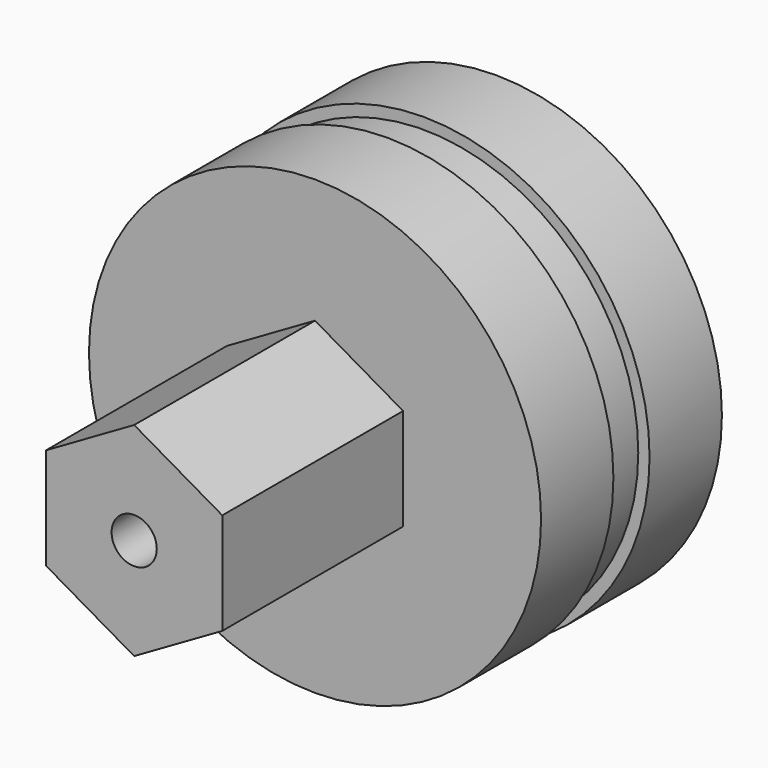
from build123d import *

# Parameters (mm, degrees)
F0_R     = 10
F0_R_2   = 9.5
F0_R_3   = 1
F1_DEPTH = 4
F2_DEPTH = 6
F3_R     = 10
F3_R_2   = 9.5
F3_R_3   = 1
F4_DEPTH = 4
F5_DEPTH = 14
F6_DEPTH = 20


with BuildPart() as f1:
    # F0 (on Front) → F1 (new body)
    with BuildSketch(Plane.XZ):
        Circle(F0_R)
        Circle(F0_R_2, mode=Mode.SUBTRACT)
        Circle(F0_R_2)
        with BuildLine():
            ThreePointArc((3.897114317, 2.25), (4.3466662183, 1.164685703), (4.5, 0))
            ThreePointArc((4.5, 0), (4.3466662183, -1.164685703), (3.897114317, -2.25))
            ThreePointArc((3.897114317, -2.25), (2.25, -3.897114317), (0, -4.5))
            ThreePointArc((0, -4.5), (-2.25, -3.897114317), (-3.897114317, -2.25))
            ThreePointArc((-3.897114317, -2.25), (-4.5, 0), (-3.897114317, 2.25))
            ThreePointArc((-3.897114317, 2.25), (-2.25, 3.897114317), (0, 4.5))
            ThreePointArc((0, 4.5), (2.25, 3.897114317), (3.897114317, 2.25))
        make_face(mode=Mode.SUBTRACT)
        with BuildLine():
            Line((0, 4.5), (3.897114317, 2.25))
            ThreePointArc((3.897114317, 2.25), (2.25, 3.897114317), (0, 4.5))
        make_face()
        with BuildLine():
            Line((-3.897114317, 2.25), (0, 4.5))
            ThreePointArc((0, 4.5), (-2.25, 3.897114317), (-3.897114317, 2.25))
        make_face()
        with BuildLine():
            Line((-3.897114317, -2.25), (-3.897114317, 2.25))
            ThreePointArc((-3.897114317, 2.25), (-4.5, 0), (-3.897114317, -2.25))
        make_face()
        with BuildLine():
            ThreePointArc((-3.897114317, -2.25), (-2.25, -3.897114317), (0, -4.5))
            Line((0, -4.5), (-3.897114317, -2.25))
        make_face()
        with BuildLine():
            ThreePointArc((0, -4.5), (2.25, -3.897114317), (3.897114317, -2.25))
            Line((3.897114317, -2.25), (0, -4.5))
        make_face()
        Polygon((3.897114317, -2.25), (3.897114317, 2.25), (0, 4.5), (-3.897114317, 2.25), (-3.897114317, -2.25), (0, -4.5), align=None)
        Circle(F0_R_3, mode=Mode.SUBTRACT)
        with BuildLine():
            ThreePointArc((3.897114317, -2.25), (4.3466662183, -1.164685703), (4.5, 0))
            ThreePointArc((4.5, 0), (4.3466662183, 1.164685703), (3.897114317, 2.25))
            Line((3.897114317, 2.25), (3.897114317, -2.25))
        make_face()
    extrude(amount=F1_DEPTH)

    # F0 (on Front) → F2 (join)
    with BuildSketch(Plane.XZ):
        Circle(F0_R_2)
        with BuildLine():
            ThreePointArc((3.897114317, 2.25), (4.3466662183, 1.164685703), (4.5, 0))
            ThreePointArc((4.5, 0), (4.3466662183, -1.164685703), (3.897114317, -2.25))
            ThreePointArc((3.897114317, -2.25), (2.25, -3.897114317), (0, -4.5))
            ThreePointArc((0, -4.5), (-2.25, -3.897114317), (-3.897114317, -2.25))
            ThreePointArc((-3.897114317, -2.25), (-4.5, 0), (-3.897114317, 2.25))
            ThreePointArc((-3.897114317, 2.25), (-2.25, 3.897114317), (0, 4.5))
            ThreePointArc((0, 4.5), (2.25, 3.897114317), (3.897114317, 2.25))
        make_face(mode=Mode.SUBTRACT)
        Polygon((3.897114317, -2.25), (3.897114317, 2.25), (0, 4.5), (-3.897114317, 2.25), (-3.897114317, -2.25), (0, -4.5), align=None)
        Circle(F0_R_3, mode=Mode.SUBTRACT)
        with BuildLine():
            Line((-3.897114317, 2.25), (0, 4.5))
            ThreePointArc((0, 4.5), (-2.25, 3.897114317), (-3.897114317, 2.25))
        make_face()
        with BuildLine():
            Line((0, 4.5), (3.897114317, 2.25))
            ThreePointArc((3.897114317, 2.25), (2.25, 3.897114317), (0, 4.5))
        make_face()
        with BuildLine():
            ThreePointArc((3.897114317, -2.25), (4.3466662183, -1.164685703), (4.5, 0))
            ThreePointArc((4.5, 0), (4.3466662183, 1.164685703), (3.897114317, 2.25))
            Line((3.897114317, 2.25), (3.897114317, -2.25))
        make_face()
        with BuildLine():
            Line((-3.897114317, -2.25), (-3.897114317, 2.25))
            ThreePointArc((-3.897114317, 2.25), (-4.5, 0), (-3.897114317, -2.25))
        make_face()
        with BuildLine():
            ThreePointArc((-3.897114317, -2.25), (-2.25, -3.897114317), (0, -4.5))
            Line((0, -4.5), (-3.897114317, -2.25))
        make_face()
        with BuildLine():
            ThreePointArc((0, -4.5), (2.25, -3.897114317), (3.897114317, -2.25))
            Line((3.897114317, -2.25), (0, -4.5))
        make_face()
    extrude(amount=F2_DEPTH)



with BuildPart() as f4:
    # F3 (on face) → F4 (new body)
    with BuildSketch(Plane.XZ.offset(6)):
        Circle(F3_R)
        Circle(F3_R_2, mode=Mode.SUBTRACT)
        Circle(F3_R_2)
        with BuildLine():
            ThreePointArc((3.897114317, 2.25), (4.3466662183, 1.164685703), (4.5, 0))
            ThreePointArc((4.5, 0), (4.3466662183, -1.164685703), (3.897114317, -2.25))
            ThreePointArc((3.897114317, -2.25), (2.25, -3.897114317), (0, -4.5))
            ThreePointArc((0, -4.5), (-2.25, -3.897114317), (-3.897114317, -2.25))
            ThreePointArc((-3.897114317, -2.25), (-4.5, 0), (-3.897114317, 2.25))
            ThreePointArc((-3.897114317, 2.25), (-2.25, 3.897114317), (0, 4.5))
            ThreePointArc((0, 4.5), (2.25, 3.897114317), (3.897114317, 2.25))
        make_face(mode=Mode.SUBTRACT)
        with BuildLine():
            Line((-3.897114317, 2.25), (0, 4.5))
            ThreePointArc((0, 4.5), (-2.25, 3.897114317), (-3.897114317, 2.25))
        make_face()
        with BuildLine():
            Line((-3.897114317, -2.25), (-3.897114317, 2.25))
            ThreePointArc((-3.897114317, 2.25), (-4.5, 0), (-3.897114317, -2.25))
        make_face()
        with BuildLine():
            Line((0, 4.5), (3.897114317, 2.25))
            ThreePointArc((3.897114317, 2.25), (2.25, 3.897114317), (0, 4.5))
        make_face()
        Polygon((3.897114317, -2.25), (3.897114317, 2.25), (0, 4.5), (-3.897114317, 2.25), (-3.897114317, -2.25), (0, -4.5), align=None)
        Circle(F3_R_3, mode=Mode.SUBTRACT)
        with BuildLine():
            ThreePointArc((3.897114317, -2.25), (4.3466662183, -1.164685703), (4.5, 0))
            ThreePointArc((4.5, 0), (4.3466662183, 1.164685703), (3.897114317, 2.25))
            Line((3.897114317, 2.25), (3.897114317, -2.25))
        make_face()
        with BuildLine():
            ThreePointArc((0, -4.5), (2.25, -3.897114317), (3.897114317, -2.25))
            Line((3.897114317, -2.25), (0, -4.5))
        make_face()
        with BuildLine():
            ThreePointArc((-3.897114317, -2.25), (-2.25, -3.897114317), (0, -4.5))
            Line((0, -4.5), (-3.897114317, -2.25))
        make_face()
    extrude(amount=F4_DEPTH)


with BuildPart() as f1_1:
    add(f1.part)

    add(f4.part)  # F5 merges F4
    # F3 (on face) → F5 (join)
    with BuildSketch(Plane.XZ.offset(6)):
        Polygon((3.897114317, -2.25), (3.897114317, 2.25), (0, 4.5), (-3.897114317, 2.25), (-3.897114317, -2.25), (0, -4.5), align=None)
        Circle(F3_R_3, mode=Mode.SUBTRACT)
    extrude(amount=F5_DEPTH)

    # F3 (on face) → F6 (cut)
    with BuildSketch(Plane.XZ.offset(6)):
        Circle(F3_R_3)
    extrude(amount=F6_DEPTH, mode=Mode.SUBTRACT)


solid = f1_1.part
